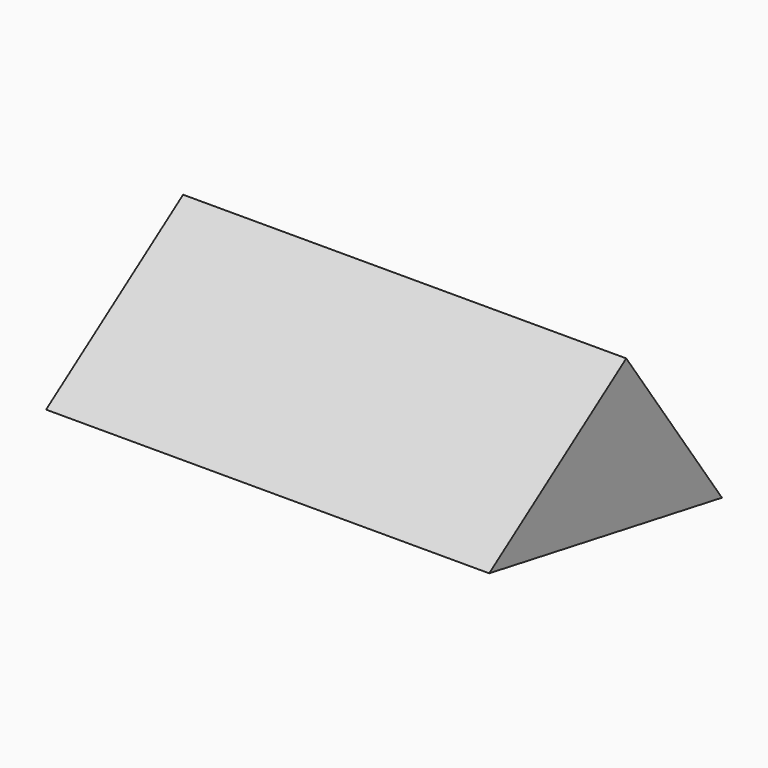
from build123d import *

# Parameters (mm, degrees)
F1_DEPTH = 12000


with BuildPart() as f1:
    # F0 (on Right) → F1 (new body)
    with BuildSketch(Plane.YZ):
        Polygon((1506.701635, 3238.42437), (-3131.466926, 0), (806.829539, -699.872096), align=None)
        Polygon((4745.126004, -1399.744192), (1506.701635, 3238.42437), (806.829539, -699.872096), align=None)
    extrude(amount=F1_DEPTH)


solid = f1.part
